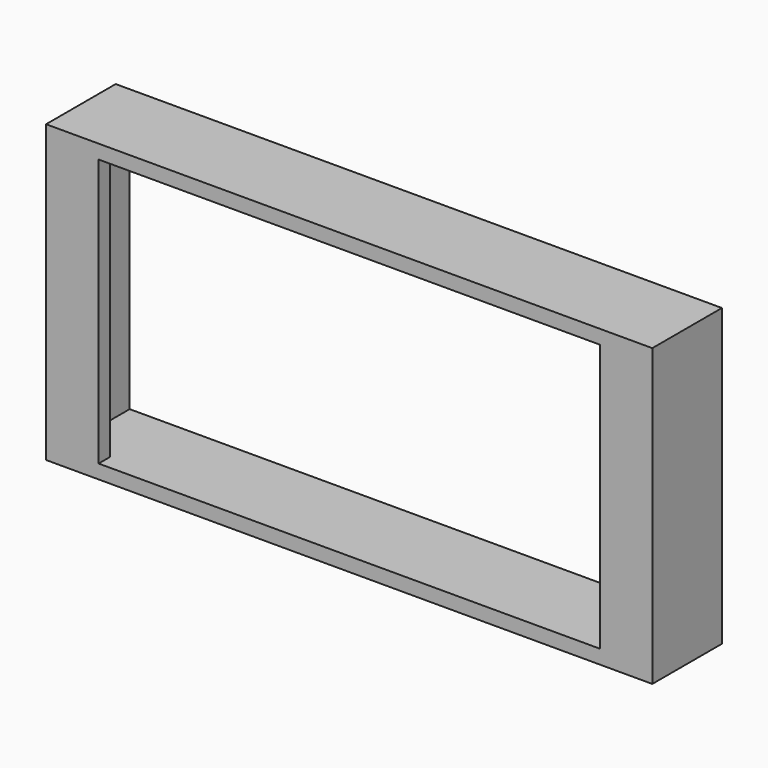
from build123d import *

# Parameters (mm, degrees)
F0_W     = 550.4
F0_H     = 268.4
F0_W_2   = 525
F0_H_2   = 243
F1_DEPTH = 79
F2_W     = 47.7
F2_H     = 12.7
F3_DEPTH = 268.4


with BuildPart() as f1:
    # F0 (on Front) → F1 (new body)
    with BuildSketch(Plane.XZ):
        Rectangle(F0_W, F0_H)
        Rectangle(F0_W_2, F0_H_2, mode=Mode.SUBTRACT)
    extrude(amount=-F1_DEPTH)

    # F2 (on face) → F3 (join, through all)
    with BuildSketch(Plane.XY.offset(134.2)):
        with Locations((-251.35, 6.35)):
            Rectangle(F2_W, F2_H)
        with Locations((251.35, 6.35)):
            Rectangle(F2_W, F2_H)
    extrude(amount=-F3_DEPTH)


solid = f1.part
